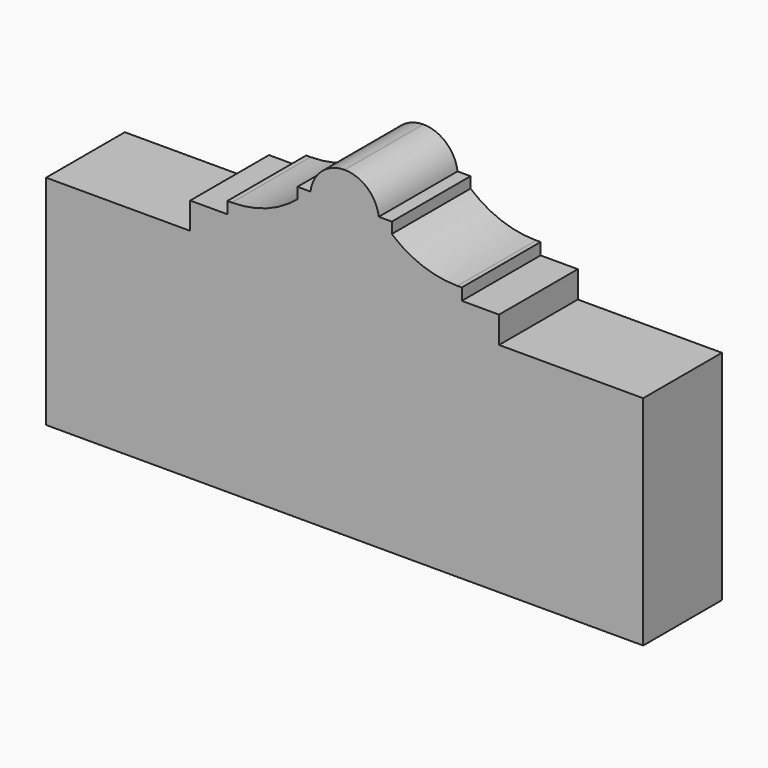
from build123d import *

# Parameters (mm, degrees)
F1_DEPTH = 23.67751


with BuildPart() as f1:
    # F0 (on Front) → F1 (new body)
    with BuildSketch(Plane.XZ):
        with BuildLine():
            Line((-71.815483, 52.379653), (-71.815483, 0))
            Line((-71.815483, 0), (0, 0))
            Line((0, 0), (0, 77.384859))
            ThreePointArc((0, 77.384859), (-5.48468, 75.305304), (-8.211866, 70.112161))
            Line((-8.211866, 70.112161), (-11.343726, 70.112161))
            Line((-11.343726, 70.112161), (-11.343726, 67.48306))
            ThreePointArc((-11.343726, 67.48306), (-18.710491, 63.14941), (-27.123494, 61.64239))
            Line((-27.123494, 61.64239), (-28.187953, 61.64239))
            Line((-28.187953, 61.64239), (-28.187953, 58.809962))
            Line((-28.187953, 58.809962), (-37.14551, 58.809962))
            Line((-37.14551, 58.809962), (-37.14551, 52.379653))
            Line((-37.14551, 52.379653), (-71.815483, 52.379653))
        make_face()
    extrude(amount=-F1_DEPTH)

    # F2: F1 across plane


with BuildPart() as f1_1:
    add(f1.part)
    add(f1.part.mirror(Plane.YZ))


solid = f1_1.part
